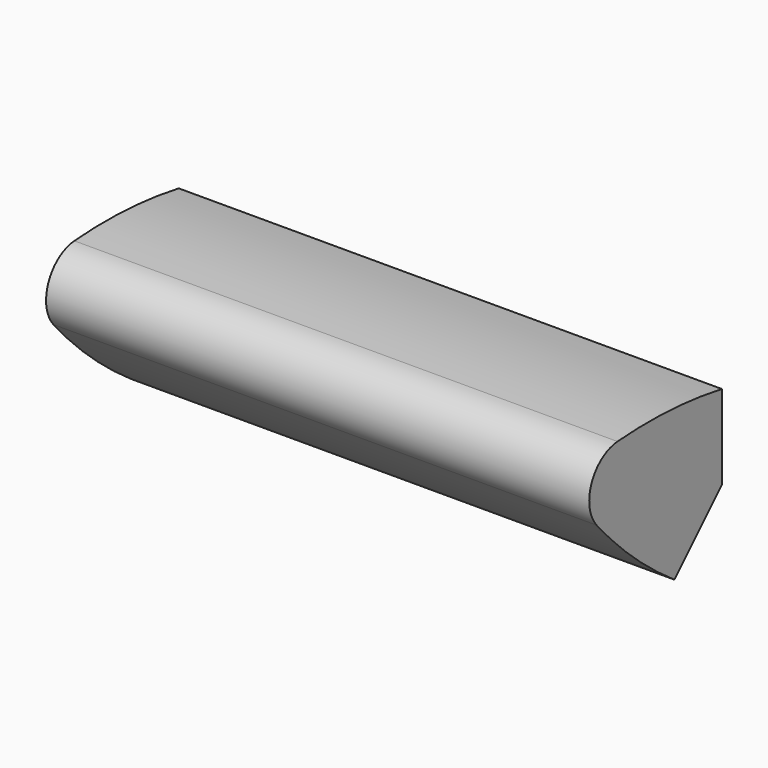
from build123d import *

# Parameters (mm, degrees)
F1_DEPTH = 112.7125


with BuildPart() as f1:
    # F0 (on Right) → F1 (new body, symmetric)
    with BuildSketch(Plane.YZ):
        with BuildLine():
            ThreePointArc((-65.019769, 11.612246), (-46.032427, -7.846355), (-24.695704, -24.695704))
            Line((-24.695704, -24.695704), (0, 0))
            Line((0, 0), (0, 34.925))
            ThreePointArc((0, 34.925), (-27.001631, 38.098052), (-54.187018, 37.764821))
            ThreePointArc((-54.187018, 37.764821), (-67.631541, 28.013901), (-65.019769, 11.612246))
        make_face()
    extrude(amount=F1_DEPTH, both=True)


solid = f1.part
